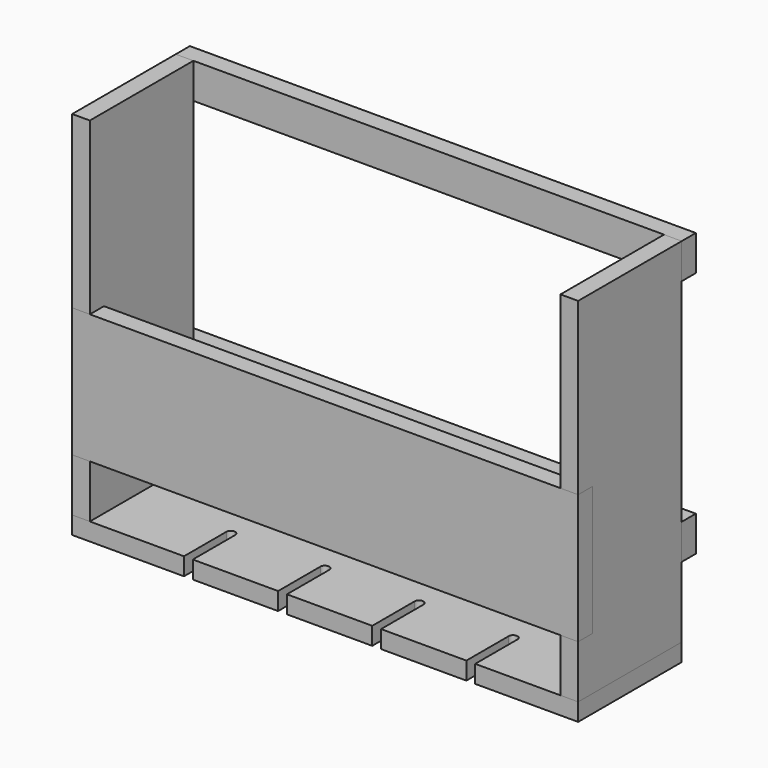
from build123d import *

# Parameters (mm, degrees)
F1_DEPTH = 19.05
F2_W     = 19.05
F2_H     = 139.7
F3_DEPTH = 381
F4_W     = 508
F4_H     = 19.05
F5_DEPTH = 139.7
F6_W     = 546.1
F6_H     = 139.7
F7_DEPTH = 19.05
F8_W     = 546.1
F8_H     = 38.1
F9_DEPTH = 19.05


with BuildPart() as f1:
    # F0 (on Top) → F1 (new body)
    with BuildSketch(Plane.XY):
        with BuildLine():
            Line((546.1, 0), (0, 0))
            Line((0, 0), (0, -139.7))
            Line((0, -139.7), (120.65, -139.7))
            Line((120.65, -139.7), (120.65, -82.55))
            ThreePointArc((120.65, -82.55), (125.4125, -77.7875), (130.175, -82.55))
            Line((130.175, -82.55), (130.175, -139.7))
            Line((130.175, -139.7), (222.25, -139.7))
            Line((222.25, -139.7), (222.25, -82.55))
            ThreePointArc((222.25, -82.55), (227.0125, -77.7875), (231.775, -82.55))
            Line((231.775, -82.55), (231.775, -139.7))
            Line((231.775, -139.7), (323.85, -139.7))
            Line((323.85, -139.7), (323.85, -82.55))
            ThreePointArc((323.85, -82.55), (328.6125, -77.7875), (333.375, -82.55))
            Line((333.375, -82.55), (333.375, -139.7))
            Line((333.375, -139.7), (425.45, -139.7))
            Line((425.45, -139.7), (425.45, -82.55))
            ThreePointArc((425.45, -82.55), (430.2125, -77.7875), (434.975, -82.55))
            Line((434.975, -82.55), (434.975, -139.7))
            Line((434.975, -139.7), (546.1, -139.7))
            Line((546.1, -139.7), (546.1, 0))
        make_face()
    extrude(amount=F1_DEPTH)


with BuildPart() as f3:
    # F2 (on face) → F3 (new body)
    with BuildSketch(Plane.XY.offset(19.05)):
        with Locations((536.575, -69.85)):
            Rectangle(F2_W, F2_H)
        with Locations((9.525, -69.85)):
            Rectangle(F2_W, F2_H)
    extrude(amount=F3_DEPTH)


with BuildPart() as f5:
    # F4 (on face) → F5 (new body, through all)
    with BuildSketch(Plane.XZ.offset(139.7)):
        with Locations((273.05, 85.725)):
            Rectangle(F4_W, F4_H)
    extrude(amount=-F5_DEPTH)


with BuildPart() as f7:
    # F6 (on face) → F7 (new body)
    with BuildSketch(Plane.XZ.offset(139.7)):
        with Locations((273.05, 146.05)):
            Rectangle(F6_W, F6_H)
    extrude(amount=-F7_DEPTH)


with BuildPart() as f9:
    # F8 (on face) → F9 (new body)
    with BuildSketch(Plane(origin=(0, 0, 0), x_dir=(-1, 0, 0), z_dir=(0, 1, 0))):
        with Locations((-273.05, 114.3)):
            Rectangle(F8_W, F8_H)
        with Locations((-273.05, 381)):
            Rectangle(F8_W, F8_H)
    extrude(amount=F9_DEPTH)


with BuildPart() as f3_1:
    add(f3.part)

    # F10: cut F7
    add(f7.part, mode=Mode.SUBTRACT)


with BuildPart() as f5_1:
    add(f5.part)

    # F10: cut F7
    add(f7.part, mode=Mode.SUBTRACT)


solid = Compound([f1.part, f7.part, f9.part, f3_1.part, f5_1.part])
